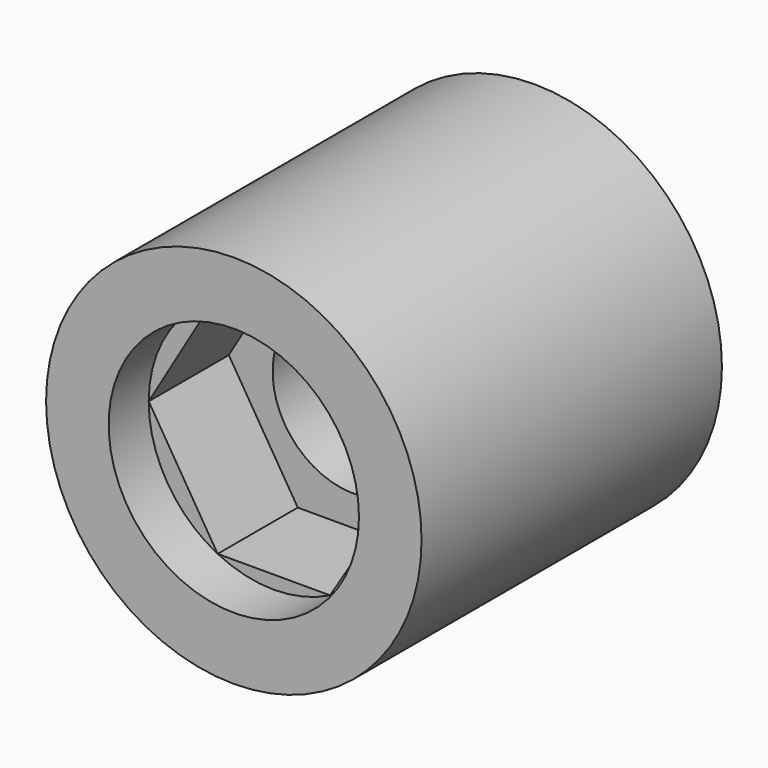
from build123d import *

# Parameters (mm, degrees)
F0_R     = 15
F0_R_2   = 9.25
F0_R_3   = 4.5
F0_R_4   = 2.75
F1_DEPTH = 30
F2_R     = 10
F2_R_2   = 2.75
F3_DEPTH = 12
F4_R     = 6.5
F4_R_2   = 2.75
F5_DEPTH = 12
F7_DEPTH = 8


with BuildPart() as f1:
    # F0 (on Front) → F1 (new body)
    with BuildSketch(Plane.XZ):
        Circle(F0_R)
        Circle(F0_R_2, mode=Mode.SUBTRACT)
        Circle(F0_R_2)
        Circle(F0_R_3, mode=Mode.SUBTRACT)
        Circle(F0_R_3)
        Circle(F0_R_4, mode=Mode.SUBTRACT)
    extrude(amount=F1_DEPTH)

    # F2 (on face) → F3 (cut)
    with BuildSketch(Plane.XZ.offset(30)):
        Circle(F2_R)
        Circle(F2_R_2, mode=Mode.SUBTRACT)
    extrude(amount=-F3_DEPTH, mode=Mode.SUBTRACT)

    # F4 (on face) → F5 (cut)
    with BuildSketch(Plane.XZ.offset(18)):
        Circle(F4_R)
        Circle(F4_R_2, mode=Mode.SUBTRACT)
    extrude(amount=-F5_DEPTH, mode=Mode.SUBTRACT)

    # F6 (on face) → F7 (join)
    with BuildSketch(Plane.XZ.offset(18)):
        with BuildLine():
            ThreePointArc((4.4908489249, 8.9348909301), (-0.195068874, 9.9980972257), (-4.8359487164, 8.7529195137))
            Line((-4.8359487164, 8.7529195137), (4.4908489249, 8.9348909301))
        make_face()
        with BuildLine():
            ThreePointArc((10, 0), (8.5120059107, 5.2484050316), (4.4908489249, 8.9348909301))
            Line((4.4908489249, 8.9348909301), (10, 0))
        make_face()
        with BuildLine():
            ThreePointArc((4.4908489249, -8.9348909301), (8.5120059107, -5.2484050316), (10, 0))
            Line((10, 0), (4.4908489249, -8.9348909301))
        make_face()
        with BuildLine():
            Line((4.4908489249, -8.9348909301), (-4.4908489249, -8.9348909301))
            ThreePointArc((-4.4908489249, -8.9348909301), (0, -10), (4.4908489249, -8.9348909301))
        make_face()
        with BuildLine():
            Line((-4.4908489249, -8.9348909301), (-10, 0))
            ThreePointArc((-10, 0), (-8.5120059107, -5.2484050316), (-4.4908489249, -8.9348909301))
        make_face()
        with BuildLine():
            Line((-10, 0), (-4.8359487164, 8.7529195137))
            ThreePointArc((-4.8359487164, 8.7529195137), (-8.6127663141, 5.0813636377), (-10, 0))
        make_face()
    extrude(amount=F7_DEPTH)


solid = f1.part
